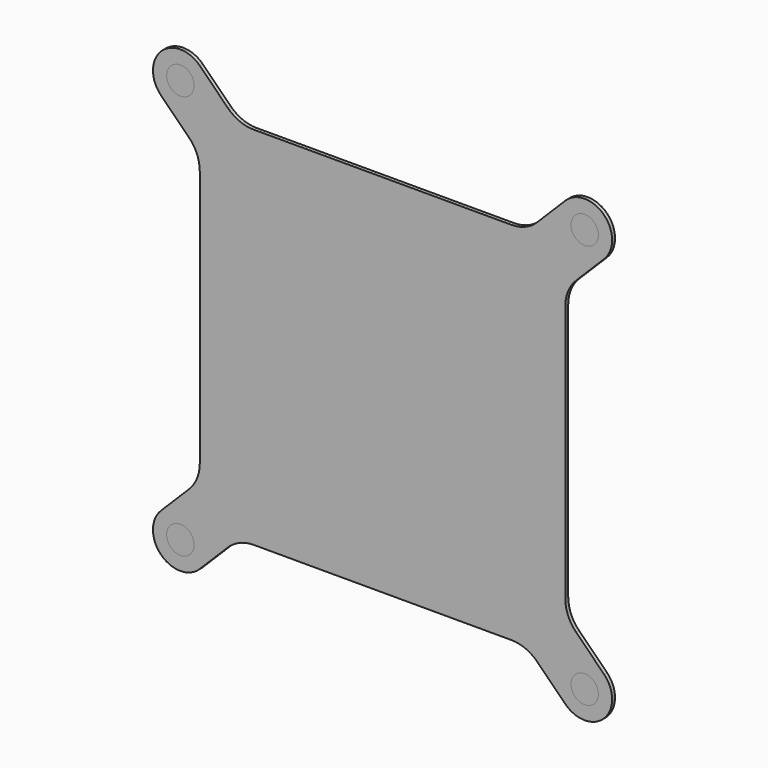
from build123d import *

# Parameters (mm, degrees)
F1_DEPTH = 0.2
F2_COUNT = 4
F3_R     = 0.75
F4_DEPTH = 0.2


with BuildPart() as f1:
    # F0 (on Front) → F1 (new body)
    with BuildSketch(Plane.XZ):
        with BuildLine():
            Line((0, 0), (0, 10))
            Line((0, 10), (-7.050253, 10))
            ThreePointArc((-7.050253, 10), (-7.815619, 10.152241), (-8.464466, 10.585786))
            Line((-8.464466, 10.585786), (-10, 12.12132))
            ThreePointArc((-10, 12.12132), (-12.12132, 12.12132), (-12.12132, 10))
            Line((-12.12132, 10), (-10.585786, 8.464466))
            ThreePointArc((-10.585786, 8.464466), (-10.152241, 7.815619), (-10, 7.050253))
            Line((-10, 7.050253), (-10, 0))
            Line((-10, 0), (0, 0))
        make_face()
    extrude(amount=F1_DEPTH)

    # F2: F1 ×4 about axis
    f2_axis = Axis((0, -0.1, 0), (0, -1, 0))


with BuildPart() as f1_1:
    add(f1.part)
    for i in range(1, F2_COUNT):
        add(f1.part.rotate(f2_axis, i * 360 / F2_COUNT))


with BuildPart() as f4:
    # F3 (on Front) → F4 (new body, through all)
    with BuildSketch(Plane.XZ):
        with Locations((-11.06066, -11.06066)):
            Circle(F3_R)
        with Locations((11.06066, -11.06066)):
            Circle(F3_R)
        with Locations((11.06066, 11.06066)):
            Circle(F3_R)
        with Locations((-11.06066, 11.06066)):
            Circle(F3_R)
    extrude(amount=F4_DEPTH)


solid = Compound([f1_1.part, f4.part])
